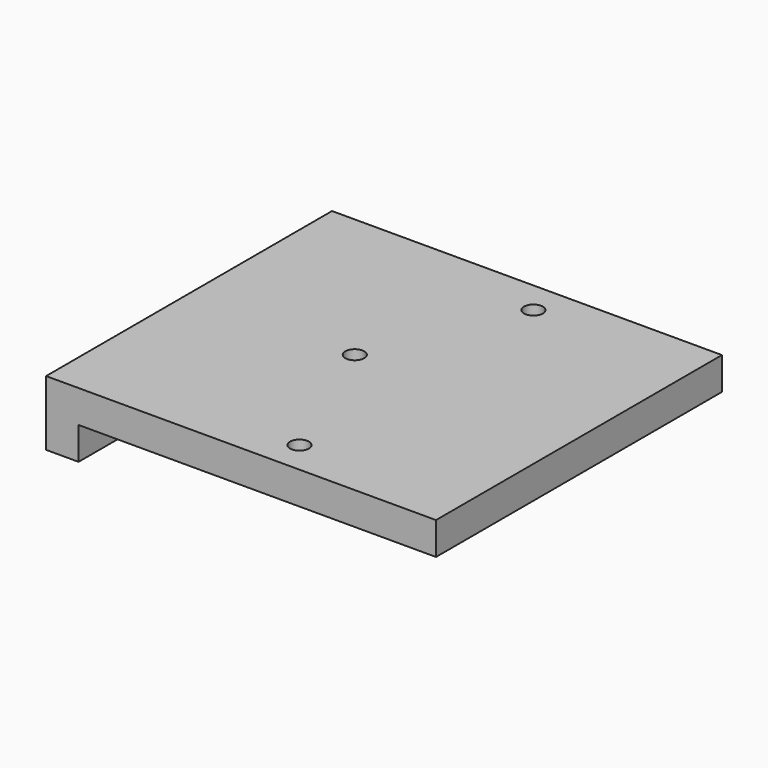
from build123d import *

# Parameters (mm, degrees)
F0_W     = 55
F0_H     = 55
F0_R     = 1.45
F0_R_2   = 17.5
F1_DEPTH = 5
F2_R     = 17.5
F2_R_2   = 16.5
F3_DEPTH = 1
F4_W     = 5
F4_H     = 55
F5_DEPTH = 10


with BuildPart() as f1:
    # F0 (on Top) → F1 (new body)
    with BuildSketch(Plane.XY):
        Rectangle(F0_W, F0_H)
        with Locations((2.5, -22.5)):
            Circle(F0_R, mode=Mode.SUBTRACT)
        with Locations((-7, 0)):
            Circle(F0_R_2, mode=Mode.SUBTRACT)
        with Locations((2.5, 22.5)):
            Circle(F0_R, mode=Mode.SUBTRACT)
        with Locations((-7, 0)):
            Circle(F0_R_2)
        with Locations((-7, 0)):
            Circle(F0_R, mode=Mode.SUBTRACT)
    extrude(amount=F1_DEPTH)

    # F2 (on face) → F3 (cut)
    with BuildSketch(Plane(origin=(0, 0, 0), x_dir=(1, 0, 0), z_dir=(0, 0, -1))):
        with Locations((-7, 0)):
            Circle(F2_R)
        with Locations((-7, 0)):
            Circle(F2_R_2, mode=Mode.SUBTRACT)
    extrude(amount=-F3_DEPTH, mode=Mode.SUBTRACT)

    # F4 (on face) → F5 (join)
    with BuildSketch(Plane.XY.offset(5)):
        with Locations((-30, 0)):
            Rectangle(F4_W, F4_H)
    extrude(amount=-F5_DEPTH)


solid = f1.part
